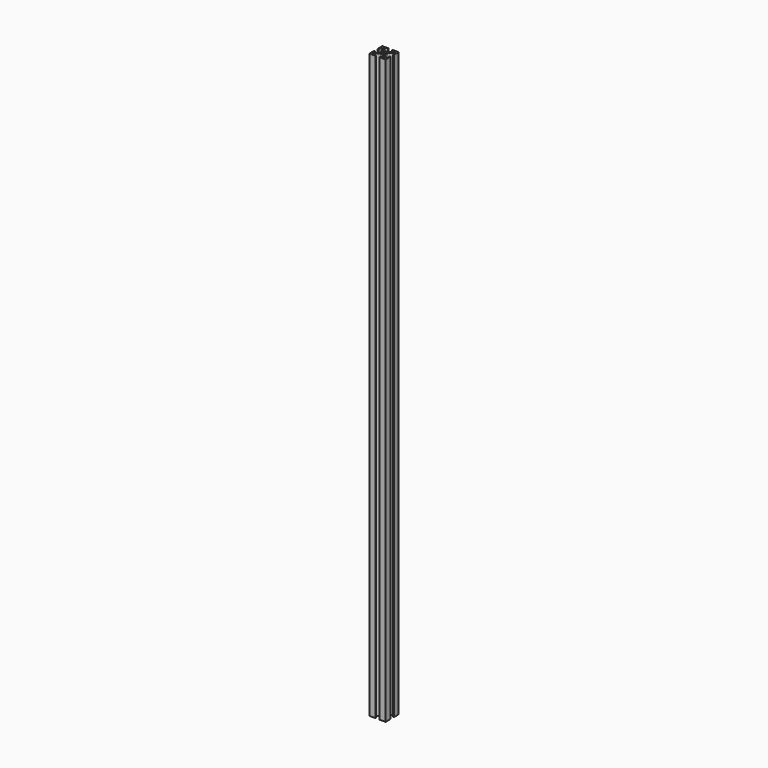
from build123d import *

# Parameters (mm, degrees)
F0_R     = 2.6035
F1_DEPTH = 457.2
F2_R     = 3.175
F3_DEPTH = 25.4


with BuildPart() as f1:
    # F0 (on Top) → F1 (new body, symmetric)
    with BuildSketch(Plane.XY):
        with BuildLine():
            ThreePointArc((4.4958, 1.618107), (4.737482, 2.833127), (5.425736, 3.863171))
            Line((5.425736, 3.863171), (10.240084, 8.677519))
            ThreePointArc((10.240084, 8.677519), (11.105105, 8.849583), (11.5951, 8.116253))
            Line((11.5951, 8.116253), (11.5951, 3.2385))
            Line((11.5951, 3.2385), (12.7, 3.2385))
            Line((12.7, 3.2385), (12.7, 12.7))
            Line((12.7, 12.7), (3.2385, 12.7))
            Line((3.2385, 12.7), (3.2385, 11.5951))
            Line((3.2385, 11.5951), (8.116253, 11.5951))
            ThreePointArc((8.116253, 11.5951), (8.849583, 11.105105), (8.677519, 10.240084))
            Line((8.677519, 10.240084), (3.863171, 5.425736))
            ThreePointArc((3.863171, 5.425736), (2.833127, 4.737482), (1.618107, 4.4958))
            Line((1.618107, 4.4958), (0, 4.4958))
            Line((0, 4.4958), (-1.618107, 4.4958))
            ThreePointArc((-1.618107, 4.4958), (-2.833127, 4.737482), (-3.863171, 5.425736))
            Line((-3.863171, 5.425736), (-8.677519, 10.240084))
            ThreePointArc((-8.677519, 10.240084), (-8.849583, 11.105105), (-8.116253, 11.5951))
            Line((-8.116253, 11.5951), (-3.2385, 11.5951))
            Line((-3.2385, 11.5951), (-3.2385, 12.7))
            Line((-3.2385, 12.7), (-12.7, 12.7))
            Line((-12.7, 12.7), (-12.7, 3.2385))
            Line((-12.7, 3.2385), (-11.5951, 3.2385))
            Line((-11.5951, 3.2385), (-11.5951, 8.116253))
            ThreePointArc((-11.5951, 8.116253), (-11.105105, 8.849583), (-10.240084, 8.677519))
            Line((-10.240084, 8.677519), (-5.425736, 3.863171))
            ThreePointArc((-5.425736, 3.863171), (-4.737482, 2.833127), (-4.4958, 1.618107))
            Line((-4.4958, 1.618107), (-4.4958, 0))
            Line((-4.4958, 0), (-4.4958, -1.618107))
            ThreePointArc((-4.4958, -1.618107), (-4.737482, -2.833127), (-5.425736, -3.863171))
            Line((-5.425736, -3.863171), (-10.240084, -8.677519))
            ThreePointArc((-10.240084, -8.677519), (-11.105105, -8.849583), (-11.5951, -8.116253))
            Line((-11.5951, -8.116253), (-11.5951, -3.2385))
            Line((-11.5951, -3.2385), (-12.7, -3.2385))
            Line((-12.7, -3.2385), (-12.7, -12.7))
            Line((-12.7, -12.7), (-3.2385, -12.7))
            Line((-3.2385, -12.7), (-3.2385, -11.5951))
            Line((-3.2385, -11.5951), (-8.116253, -11.5951))
            ThreePointArc((-8.116253, -11.5951), (-8.849583, -11.105105), (-8.677519, -10.240084))
            Line((-8.677519, -10.240084), (-3.863171, -5.425736))
            ThreePointArc((-3.863171, -5.425736), (-2.833127, -4.737482), (-1.618107, -4.4958))
            Line((-1.618107, -4.4958), (0, -4.4958))
            Line((0, -4.4958), (1.618107, -4.4958))
            ThreePointArc((1.618107, -4.4958), (2.833127, -4.737482), (3.863171, -5.425736))
            Line((3.863171, -5.425736), (8.677519, -10.240084))
            ThreePointArc((8.677519, -10.240084), (8.849583, -11.105105), (8.116253, -11.5951))
            Line((8.116253, -11.5951), (3.2385, -11.5951))
            Line((3.2385, -11.5951), (3.2385, -12.7))
            Line((3.2385, -12.7), (12.7, -12.7))
            Line((12.7, -12.7), (12.7, -3.2385))
            Line((12.7, -3.2385), (11.5951, -3.2385))
            Line((11.5951, -3.2385), (11.5951, -8.116253))
            ThreePointArc((11.5951, -8.116253), (11.105105, -8.849583), (10.240084, -8.677519))
            Line((10.240084, -8.677519), (5.425736, -3.863171))
            ThreePointArc((5.425736, -3.863171), (4.737482, -2.833127), (4.4958, -1.618107))
            Line((4.4958, -1.618107), (4.4958, 0))
            Line((4.4958, 0), (4.4958, 1.618107))
        make_face()
        Circle(F0_R, mode=Mode.SUBTRACT)
    extrude(amount=F1_DEPTH, both=True)

    # F2 (on Front) → F3 (cut, symmetric)
    with BuildSketch(Plane.XZ):
        with Locations((0, 450.85)):
            Circle(F2_R)
    extrude(amount=F3_DEPTH, both=True, mode=Mode.SUBTRACT)


solid = f1.part
